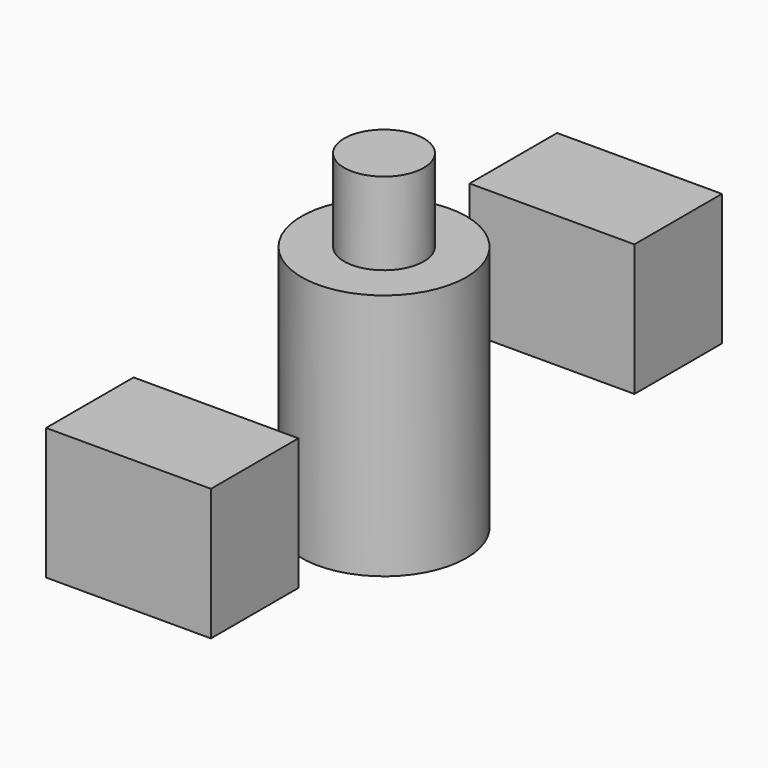
from build123d import *

# Parameters (mm, degrees)
F0_R     = 25
F1_DEPTH = 100
F2_R     = 25
F2_R_2   = 12.078352
F3_DEPTH = 25
F4_W     = 33.172474
F4_H     = 39.95184
F5_DEPTH = 25


with BuildPart() as f1:
    # F0 (on Top) → F1 (new body)
    with BuildSketch(Plane.XY):
        Circle(F0_R)
    extrude(amount=F1_DEPTH)

    # F2 (on face) → F3 (cut)
    with BuildSketch(Plane.XY.offset(100)):
        Circle(F2_R)
        Circle(F2_R_2, mode=Mode.SUBTRACT)
    extrude(amount=-F3_DEPTH, mode=Mode.SUBTRACT)


with BuildPart() as f5:
    # F4 (on Right) → F5 (new body, symmetric)
    with BuildSketch(Plane.YZ):
        with Locations((-80.277376, 37.891547)):
            Rectangle(F4_W, F4_H)
    extrude(amount=F5_DEPTH, both=True)


with BuildPart() as f6_1:
    # F6: instance of F5
    add(f5.part.mirror(Plane.XZ))


solid = Compound([f1.part, f5.part, f6_1.part])
